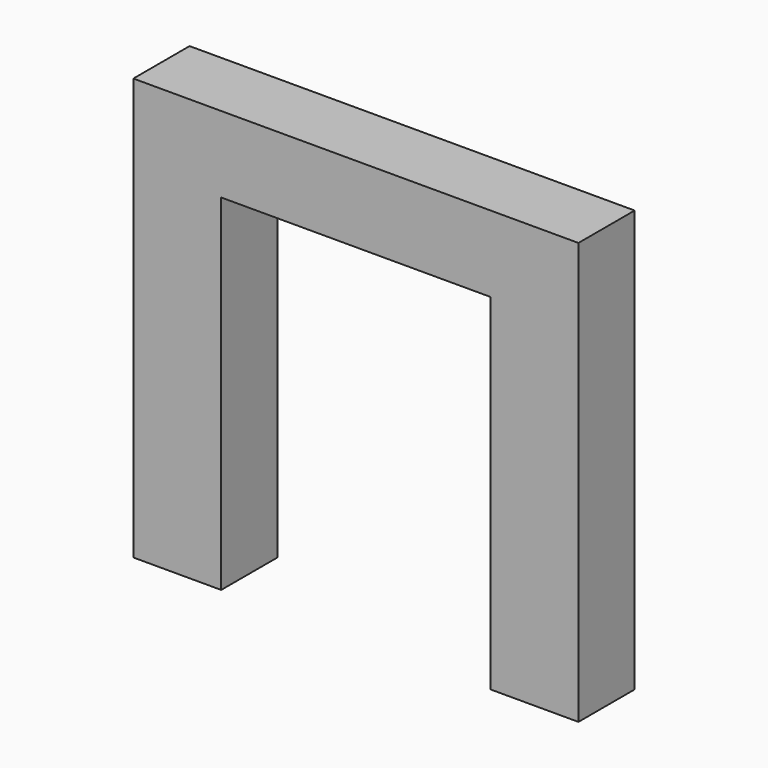
from build123d import *

# Parameters (mm, degrees)
BOX019_W     = 23
BOX019_H     = 6
BOX019_DEPTH = 29.5
BOX018_W     = 38
BOX018_H     = 6
BOX018_DEPTH = 36


with BuildPart() as cube019:
    # Box019 → Box019 (new body)
    with BuildSketch(Plane(origin=(-11.5, 7.25, -18), x_dir=(1, 0, 0), z_dir=(0, 0, 1))):
        with Locations((11.5, 3)):
            Rectangle(BOX019_W, BOX019_H)
    extrude(amount=BOX019_DEPTH)


with BuildPart() as cut005:
    # Box018 → Box018 (new body)
    with BuildSketch(Plane(origin=(-19, 7.25, -18), x_dir=(1, 0, 0), z_dir=(0, 0, 1))):
        with Locations((19, 3)):
            Rectangle(BOX018_W, BOX018_H)
    extrude(amount=BOX018_DEPTH)

    # Cut005: cut Cube019
    add(cube019.part, mode=Mode.SUBTRACT)


solid = cut005.part
